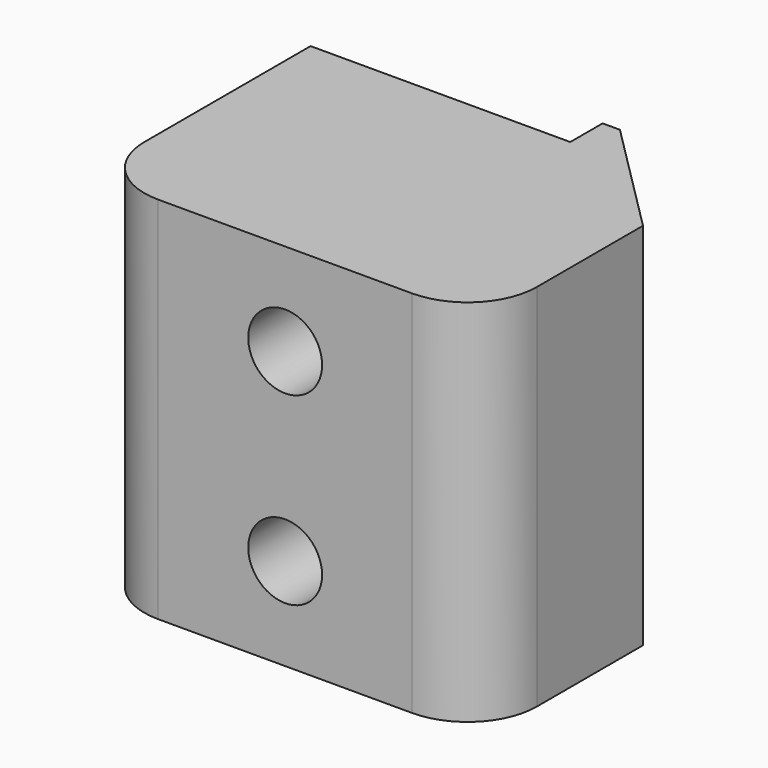
from build123d import *

# Parameters (mm, degrees)
CYLINDER898_R          = 1.6
CYLINDER898_DEPTH      = 20
CYLINDER898_ROLL_ANGLE = 90
CYLINDER897_R          = 1.6
CYLINDER897_DEPTH      = 20
CYLINDER897_ROLL_ANGLE = 90
BOX552_W               = 17
BOX552_H               = 12
BOX552_DEPTH           = 16
BOX553_W               = 5.75
BOX553_H               = 1.75
BOX553_DEPTH           = 16
CHAMFER001_SIZE        = 5
FILLET013_R            = 3


with BuildPart() as cylinder1021:
    # Cylinder898 → Cylinder898 (new body)
    with BuildSketch(Plane.XY):
        Circle(CYLINDER898_R)
    extrude(amount=CYLINDER898_DEPTH)


with BuildPart() as cylinder1021_1:
    # Cylinder898 roll: moved
    add(cylinder1021.part.rotate(Axis((0, 0, 0), (1, 0, 0)), CYLINDER898_ROLL_ANGLE))


with BuildPart() as cylinder1021_2:
    # Cylinder898 placement: moved
    add(cylinder1021_1.part.moved(Location((19.5, 30, 0.5))))


with BuildPart() as fusion056:
    # Cylinder897 → Cylinder897 (new body)
    with BuildSketch(Plane.XY):
        Circle(CYLINDER897_R)
    extrude(amount=CYLINDER897_DEPTH)


with BuildPart() as fusion056_1:
    # Cylinder897 roll: moved
    add(fusion056.part.rotate(Axis((0, 0, 0), (1, 0, 0)), CYLINDER897_ROLL_ANGLE))


with BuildPart() as fusion056_2:
    # Cylinder897 placement: moved
    add(fusion056_1.part.moved(Location((19.5, 30, -7.5))))

    # Fusion056: union Cylinder1021
    add(cylinder1021_2.part)


with BuildPart() as fusion056_3:
    # Fusion056 placement: moved
    add(fusion056_2.part.moved(Location((0, -40, 0))))


with BuildPart() as cube743:
    # Box552 → Box552 (new body)
    with BuildSketch(Plane(origin=(11, -30, -11.5), x_dir=(1, 0, 0), z_dir=(0, 0, 1))):
        with Locations((8.5, 6)):
            Rectangle(BOX552_W, BOX552_H)
    extrude(amount=BOX552_DEPTH)


with BuildPart() as diff_box_mount_left:
    # Box553 → Box553 (new body)
    with BuildSketch(Plane(origin=(22.25, -18, -11.5), x_dir=(1, 0, 0), z_dir=(0, 0, 1))):
        with Locations((2.875, 0.875)):
            Rectangle(BOX553_W, BOX553_H)
    extrude(amount=BOX553_DEPTH)

    # Fusion055: union Cube743
    add(cube743.part)

    # Chamfer001
    chamfer001_edges = [diff_box_mount_left.edges().sort_by_distance(p)[0] for p in [
        (28, -16.25, -3.5),
    ]]
    chamfer(chamfer001_edges, length=CHAMFER001_SIZE)

    # Fillet013
    fillet013_edges = [diff_box_mount_left.edges().sort_by_distance(p)[0] for p in [
        (28, -30, -3.5),
        (11, -30, -3.5),
    ]]
    fillet(fillet013_edges, radius=FILLET013_R)

    # Cut014020: cut Fusion056
    add(fusion056_3.part, mode=Mode.SUBTRACT)


with BuildPart() as diff_box_mount_left_1:
    # Cut014020 placement: moved
    add(diff_box_mount_left.part.moved(Location((0, 0, -1))))


solid = diff_box_mount_left_1.part
